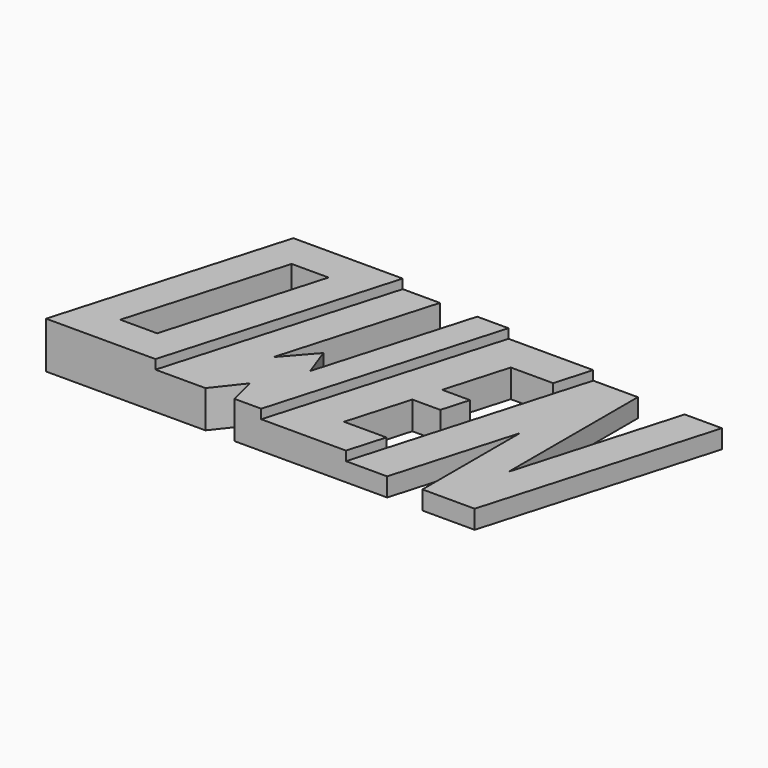
from build123d import *

# Parameters (mm, degrees)
F1_DEPTH = 15.24
F2_DEPTH = 12.192
F3_DEPTH = 9.144
F4_DEPTH = 6.096


with BuildPart() as f1:
    # F0 (on Top) → F1 (new body)
    with BuildSketch(Plane.XY):
        Polygon((-19.076721, 37.150636), (-54.891605, 37.150636), (-76.409116, -37.150636), (-40.594233, -37.150636), align=None)
        Polygon((-61.239227, -25.750598), (-46.324576, 25.750598), (-34.24661, 25.750598), (-49.161262, -25.750598), align=None, mode=Mode.SUBTRACT)
    extrude(amount=F1_DEPTH)

    # F0 (on Top) → F2 (join)
    with BuildSketch(Plane.XY):
        Polygon((-6.884721, 37.150636), (-19.076721, 37.150636), (-40.594233, -37.150636), (-24.240132, -37.150636), (-17.038353, -28.016673), (-14.754863, -37.150636), (-5.972206, -37.150636), (15.545306, 37.150636), (5.307279, 37.150636), (-9.230042, -13.047613), (-12.835056, -3.14023), (-21.369147, -12.864963), align=None)
    extrude(amount=F2_DEPTH)

    # F0 (on Top) → F3 (join)
    with BuildSketch(Plane.XY):
        Polygon((43.298501, 37.150636), (15.545306, 37.150636), (-5.972206, -37.150636), (21.78099, -37.150636), (25.299825, -24.999883), (11.423228, -24.999883), (17.365993, -4.479155), (26.523624, -4.479155), (29.117934, 4.479155), (26.523624, 4.479155), (19.960303, 4.479155), (25.932101, 25.100136), (39.808699, 25.100136), align=None)
    extrude(amount=F3_DEPTH)

    # F0 (on Top) → F4 (join)
    with BuildSketch(Plane.XY):
        Polygon((57.90846, 37.150636), (43.298501, 37.150636), (39.808699, 25.100136), (25.299825, -24.999883), (21.78099, -37.150636), (35.253152, -37.150636), (46.813049, 2.766387), (46.813049, -7.282906), (46.813049, -37.150636), (49.582697, -37.150636), (63.912243, -37.150636), (85.429754, 37.150636), (73.237754, 37.150636), (57.90846, -15.782347), align=None)
    extrude(amount=F4_DEPTH)


solid = f1.part
